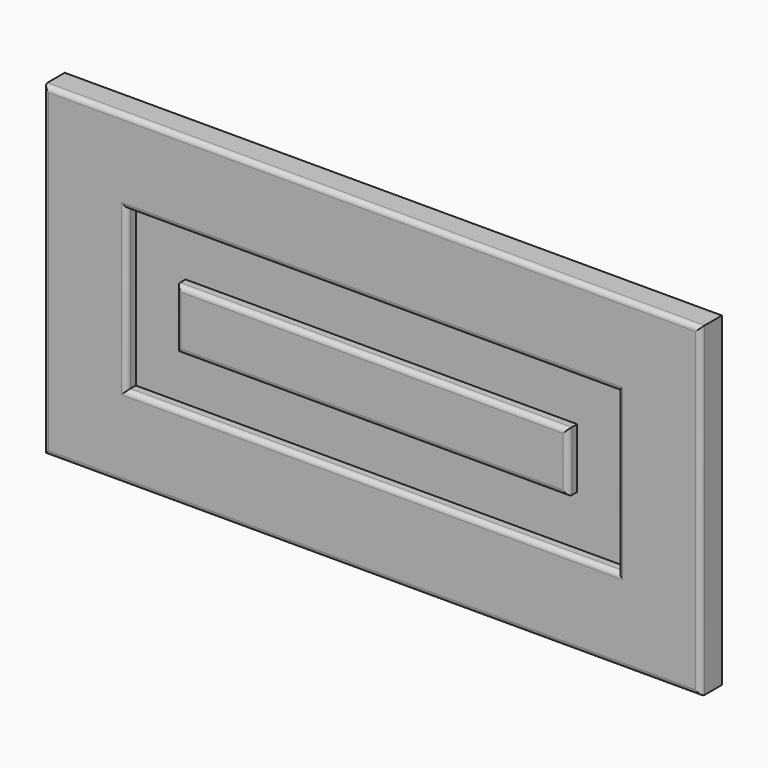
from build123d import *

# Parameters (mm, degrees)
F0_W      = 44.656470418
F0_H      = 33.8078811765
F1_DEPTH  = 16
F2_DEPTH  = 796
F3_DEPTH  = 196
F4_W      = 68.9578056335
F4_H      = 493.6993122101
F5_DEPTH  = 7
F6_DEPTH  = 9.7
F7_DEPTH  = 99.33
F8_DEPTH  = 99.33
F9_DEPTH  = 17.34
F10_DEPTH = 102.97
F11_W     = 35.2807044983
F11_H     = 492.0964837074
F12_DEPTH = 7
F13_DEPTH = 37.27
F14_DEPTH = 6.58
F15_DEPTH = 106.63
F16_DEPTH = 5.87
F17_DEPTH = 200
F18_DEPTH = 200
F19_DEPTH = 200
F20_DEPTH = 600
F21_DEPTH = 600
F22_DEPTH = 600
F23_R     = 3


with BuildPart() as f1:
    # F0 (on Front) → F1 (new body)
    with BuildSketch(Plane.XZ):
        with Locations((22.328235209, 16.9039405882)):
            Rectangle(F0_W, F0_H)
    extrude(amount=F1_DEPTH)

    # F2 (add): a face of the model
    f2_faces = [f1.faces().sort_by_distance(p)[0] for p in [
        (22.328235209, -8, 0),
    ]]
    extrude(f2_faces, amount=-F2_DEPTH)

    # F3 (add): a face of the model
    f3_faces = [f1.faces().sort_by_distance(p)[0] for p in [
        (0, -8, 398),
    ]]
    extrude(f3_faces, amount=-F3_DEPTH)

    # F4 (on face) → F5 (cut)
    with BuildSketch(Plane.XZ.offset(16)):
        with Locations((94.1769480705, 399.8196721077)):
            Rectangle(F4_W, F4_H)
    extrude(amount=-F5_DEPTH, mode=Mode.SUBTRACT)

    # F6 (cut): a face of the model
    f6_faces = [f1.faces().sort_by_distance(p)[0] for p in [
        (59.6980452538, -12.5, 399.8196721077),
    ]]
    extrude(f6_faces, amount=-F6_DEPTH, mode=Mode.SUBTRACT)

    # F7 (add): a face of the model
    f7_faces = [f1.faces().sort_by_distance(p)[0] for p in [
        (89.3269480705, -12.5, 646.6693282127),
    ]]
    extrude(f7_faces, amount=-F7_DEPTH)

    # F8 (cut): a face of the model
    f8_faces = [f1.faces().sort_by_distance(p)[0] for p in [
        (89.3269480705, -12.5, 646.6693282127),
    ]]
    extrude(f8_faces, amount=-F8_DEPTH, mode=Mode.SUBTRACT)

    # F9 (cut): a face of the model
    f9_faces = [f1.faces().sort_by_distance(p)[0] for p in [
        (128.6558508873, -12.5, 449.4846721077),
    ]]
    extrude(f9_faces, amount=-F9_DEPTH, mode=Mode.SUBTRACT)

    # F10 (cut): a face of the model
    f10_faces = [f1.faces().sort_by_distance(p)[0] for p in [
        (97.9969480705, -12.5, 152.9700160027),
    ]]
    extrude(f10_faces, amount=-F10_DEPTH, mode=Mode.SUBTRACT)

    # F11 (on face) → F12 (join)
    with BuildSketch(Plane.XZ.offset(9)):
        with Locations((91.7714834213, 432.6795041561)):
            Rectangle(F11_W, F11_H)
    extrude(amount=F12_DEPTH)

    # F13 (add): a face of the model
    f13_faces = [f1.faces().sort_by_distance(p)[0] for p in [
        (91.7714834213, -12.5, 678.7277460098),
    ]]
    extrude(f13_faces, amount=F13_DEPTH)

    # F14 (add): a face of the model
    f14_faces = [f1.faces().sort_by_distance(p)[0] for p in [
        (109.4118356705, -12.5, 451.3145041561),
    ]]
    extrude(f14_faces, amount=F14_DEPTH)

    # F15 (add): a face of the model
    f15_faces = [f1.faces().sort_by_distance(p)[0] for p in [
        (95.0614834213, -12.5, 186.6312623024),
    ]]
    extrude(f15_faces, amount=F15_DEPTH)

    # F16 (cut): a face of the model
    f16_faces = [f1.faces().sort_by_distance(p)[0] for p in [
        (74.1311311722, -12.5, 397.9995041561),
    ]]
    extrude(f16_faces, amount=-F16_DEPTH, mode=Mode.SUBTRACT)

    # F17 (add): a face of the model
    f17_faces = [f1.faces().sort_by_distance(p)[0] for p in [
        (196, -8, 398),
    ]]
    extrude(f17_faces, amount=F17_DEPTH)

    # F18 (cut): a face of the model
    f18_faces = [f1.faces().sort_by_distance(p)[0] for p in [
        (145.9958508873, -12.5, 397.9996721077),
    ]]
    extrude(f18_faces, amount=-F18_DEPTH, mode=Mode.SUBTRACT)

    # F19 (add): a face of the model
    f19_faces = [f1.faces().sort_by_distance(p)[0] for p in [
        (115.9918356705, -12.5, 397.9995041561),
    ]]
    extrude(f19_faces, amount=F19_DEPTH)

    # F20 (cut): a face of the model
    f20_faces = [f1.faces().sort_by_distance(p)[0] for p in [
        (197.9964834213, -12.5, 80.0012623024),
    ]]
    extrude(f20_faces, amount=-F20_DEPTH, mode=Mode.SUBTRACT)

    # F21 (add): a face of the model
    f21_faces = [f1.faces().sort_by_distance(p)[0] for p in [
        (197.9969480705, -12.5, 50.0000160027),
    ]]
    extrude(f21_faces, amount=F21_DEPTH)

    # F22 (cut): a face of the model
    f22_faces = [f1.faces().sort_by_distance(p)[0] for p in [
        (198, -8, 0),
    ]]
    extrude(f22_faces, amount=-F22_DEPTH, mode=Mode.SUBTRACT)

    # F23
    f23_edges = [f1.edges().sort_by_distance(p)[0] for p in [
        (0, -16, 698),
        (198, -16, 796),
        (396, -16, 698),
        (198, -16, 600),
        (197.996948, -16, 745.999328),
        (49.998045, -16, 697.999672),
        (345.995851, -16, 697.999672),
        (197.996948, -16, 650.000016),
        (197.996483, -16, 715.997746),
        (315.991836, -16, 697.999504),
        (197.996483, -16, 680.001262),
        (80.001131, -16, 697.999504),
    ]]
    fillet(f23_edges, radius=F23_R)


solid = f1.part
